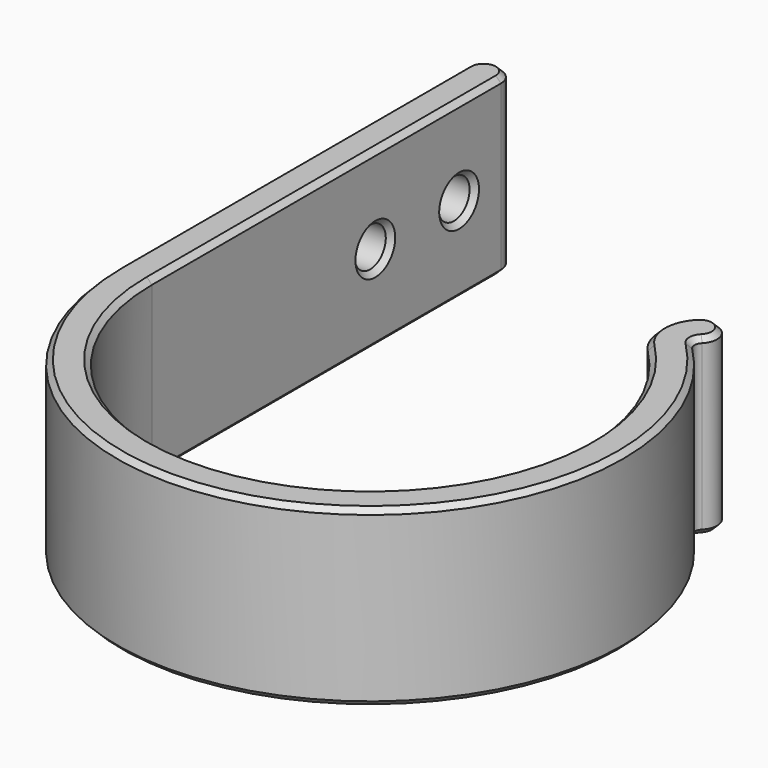
from build123d import *

# Parameters (mm, degrees)
PAD_DEPTH    = 20
SKETCH001_R  = 2.25
POCKET_DEPTH = 5
CHAMFER_SIZE = 0.6


with BuildPart() as part:
    # Sketch → Pad (new body)
    with BuildSketch(Plane.XY):
        with BuildLine():
            ThreePointArc((-25, 0), (9.567086, -23.096988), (17.67767, 17.67767))
            ThreePointArc((17.67767, 24.748737), (16.213203, 21.213203), (17.67767, 17.67767))
            ThreePointArc((20.506097, 21.92031), (20.506097, 24.748737), (17.67767, 24.748737))
            ThreePointArc((20.506097, 21.92031), (20.213203, 21.213203), (20.506097, 20.506097))
            ThreePointArc((-29, 0), (11.09782, -26.792506), (20.506097, 20.506097))
            Line((-29, 0), (-29, 50))
            ThreePointArc((-25, 50), (-27, 52), (-29, 50))
            Line((-25, 0), (-25, 50))
        make_face()
    extrude(amount=PAD_DEPTH)

    # Sketch001 (on Face3 of Pad) → Pocket (cut)
    with BuildSketch(Plane.YZ.offset(-25)):
        with Locations((44, 10)):
            Circle(SKETCH001_R)
        with Locations((32, 10)):
            Circle(SKETCH001_R)
    extrude(amount=-POCKET_DEPTH, mode=Mode.SUBTRACT)

    # Chamfer
    chamfer_edges = [part.edges().sort_by_distance(p)[0] for p in [
        (-25, 29.75, 10),
        (-25, 41.75, 10),
        (-29, 25, 20),
        (-27, 52, 20),
        (-25, 25, 20),
        (9.567086, -23.096988, 20),
        (16.213203, 21.213203, 20),
        (20.506097, 24.748737, 20),
        (20.213203, 21.213203, 20),
        (11.09782, -26.792506, 20),
        (-29, 25, 0),
        (-27, 52, 0),
        (-25, 25, 0),
        (9.567086, -23.096988, 0),
        (16.213203, 21.213203, 0),
        (20.506097, 24.748737, 0),
        (20.213203, 21.213203, 0),
        (11.09782, -26.792506, 0),
        (-29, 29.75, 10),
        (-29, 41.75, 10),
    ]]
    chamfer(chamfer_edges, length=CHAMFER_SIZE)


solid = part.part
